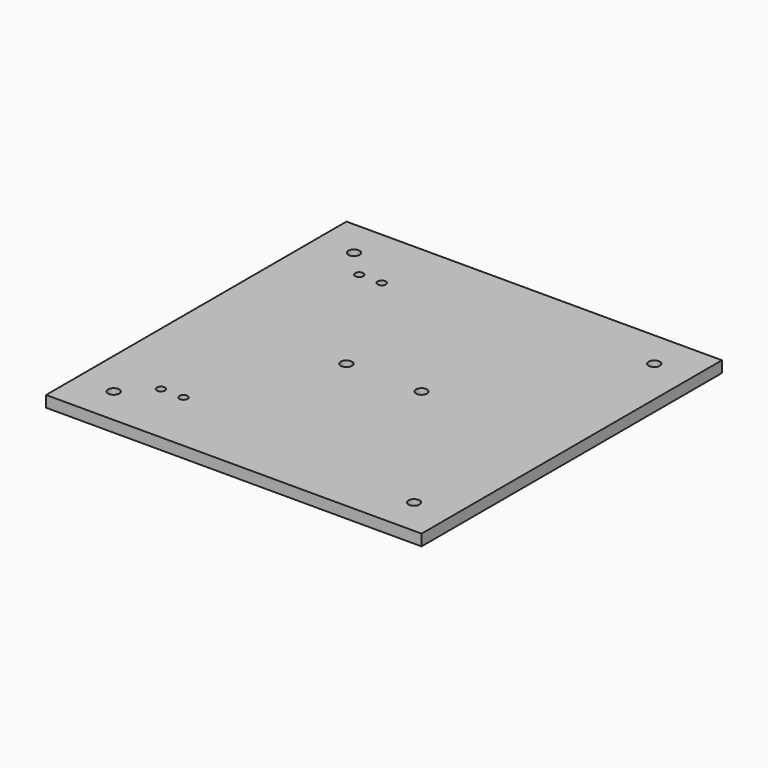
from build123d import *

# Parameters (mm, degrees)
F0_W     = 100
F0_H     = 100
F1_DEPTH = 3
F2_R     = 1.5
F3_DEPTH = 3.001
F4_R     = 1.1
F5_DEPTH = 3.001
F6_R     = 1.5
F7_DEPTH = 3.001


with BuildPart() as f1:
    # F0 (on Top) → F1 (new body)
    with BuildSketch(Plane.XY):
        with Locations((50, 50)):
            Rectangle(F0_W, F0_H)
    extrude(amount=F1_DEPTH)

    # F2 (on face) → F3 (cut, through all)
    with BuildSketch(Plane.XY.offset(3)):
        with Locations((10, 90)):
            Circle(F2_R)
        with Locations((90, 90)):
            Circle(F2_R)
        with Locations((90, 10)):
            Circle(F2_R)
        with Locations((10, 10)):
            Circle(F2_R)
    extrude(amount=-F3_DEPTH, mode=Mode.SUBTRACT)

    # F4 (on face) → F5 (cut, through all)
    with BuildSketch(Plane.XY.offset(3)):
        with Locations((17, 83)):
            Circle(F4_R)
        with Locations((23, 83)):
            Circle(F4_R)
        with Locations((17, 17)):
            Circle(F4_R)
        with Locations((23, 17)):
            Circle(F4_R)
    extrude(amount=-F5_DEPTH, mode=Mode.SUBTRACT)

    # F6 (on face) → F7 (cut, through all)
    with BuildSketch(Plane.XY.offset(3)):
        with Locations((40, 50)):
            Circle(F6_R)
        with Locations((60, 50)):
            Circle(F6_R)
    extrude(amount=-F7_DEPTH, mode=Mode.SUBTRACT)


solid = f1.part
